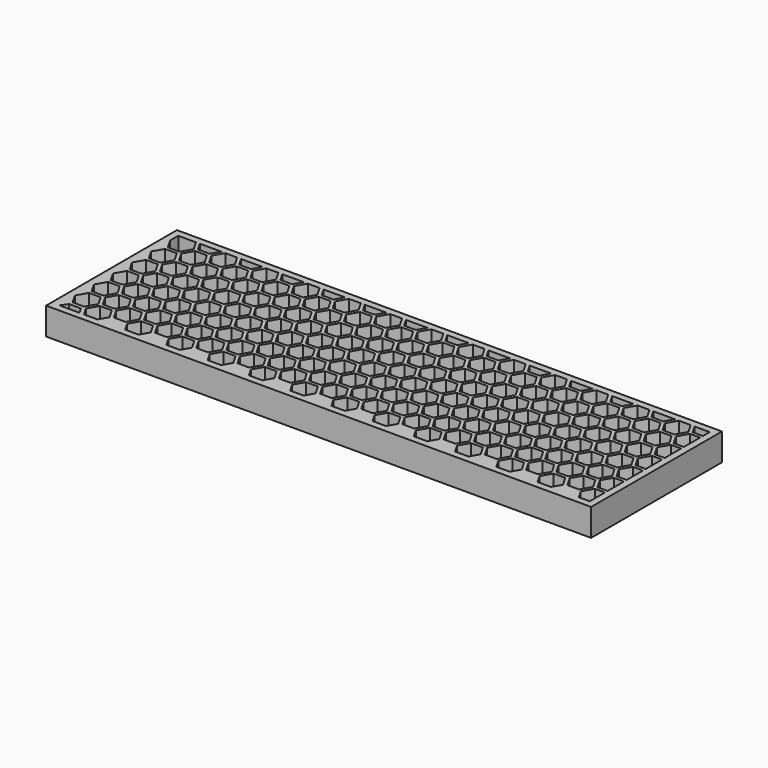
from build123d import *

# Parameters (mm, degrees)
F1_DEPTH = 12.7


with BuildPart() as f1:
    # F0 (on Top) → F1 (new body)
    with BuildSketch(Plane.XY):
        Polygon((246.0997456347, 12.0109306526), (250.825, 12.0109306526), (250.825, 13.5984306526), (246.0997456347, 13.5984306526), (243.3556092871, 18.3514142296), (246.0997456347, 23.1043978066), (250.825, 23.1043978066), (250.825, 24.6918978066), (246.0997456347, 24.6918978066), (243.3556092871, 29.4448813837), (246.0997456347, 34.1978649607), (250.825, 34.1978649607), (250.825, 35.7853649607), (246.0997456347, 35.7853649607), (243.3556092871, 40.5383485378), (246.0997456347, 45.2913321148), (250.825, 45.2913321148), (250.825, 46.8788321148), (246.0997456347, 46.8788321148), (243.3556092871, 51.6318156918), (246.0997456347, 56.3847992689), (250.825, 56.3847992689), (250.825, 57.9722992689), (246.0997456347, 57.9722992689), (243.3556092871, 62.7252828459), (246.0997456347, 67.478266423), (250.825, 67.478266423), (250.825, 69.065766423), (246.0997456347, 69.065766423), (243.8138810632, 73.025), (241.9807939586, 73.025), (244.7249303062, 68.272016423), (241.9807939586, 63.5190328459), (236.4925212633, 63.5190328459), (233.7483849156, 68.272016423), (236.4925212633, 73.025), (234.6594341586, 73.025), (232.3735695871, 69.065766423), (226.8852968918, 69.065766423), (224.5994323203, 73.025), (222.7663452156, 73.025), (225.5104815633, 68.272016423), (222.7663452156, 63.5190328459), (217.2780725203, 63.5190328459), (214.5339361726, 68.272016423), (217.2780725203, 73.025), (215.4449854156, 73.025), (213.1591208441, 69.065766423), (207.6708481488, 69.065766423), (205.3849835773, 73.025), (203.5518964726, 73.025), (206.2960328203, 68.272016423), (203.5518964726, 63.5190328459), (198.0636237773, 63.5190328459), (195.3194874297, 68.272016423), (198.0636237773, 73.025), (196.2305366726, 73.025), (193.9446721012, 69.065766423), (188.4563994058, 69.065766423), (186.1705348343, 73.025), (184.3374477297, 73.025), (187.0815840773, 68.272016423), (184.3374477297, 63.5190328459), (178.8491750344, 63.5190328459), (176.1050386867, 68.272016423), (178.8491750344, 73.025), (177.0160879297, 73.025), (174.7302233582, 69.065766423), (169.2419506629, 69.065766423), (166.9560860914, 73.025), (165.1229989867, 73.025), (167.8671353344, 68.272016423), (165.1229989867, 63.5190328459), (159.6347262914, 63.5190328459), (156.8905899437, 68.272016423), (159.6347262914, 73.025), (157.8016391867, 73.025), (155.5157746152, 69.065766423), (150.0275019199, 69.065766423), (147.7416373484, 73.025), (145.9085502437, 73.025), (148.6526865914, 68.272016423), (145.9085502437, 63.5190328459), (140.4202775484, 63.5190328459), (137.6761412008, 68.272016423), (140.4202775484, 73.025), (138.5871904437, 73.025), (136.3013258723, 69.065766423), (130.8130531769, 69.065766423), (128.5271886054, 73.025), (126.6941015008, 73.025), (129.4382378484, 68.272016423), (126.6941015008, 63.5190328459), (121.2058288055, 63.5190328459), (118.4616924578, 68.272016423), (121.2058288055, 73.025), (119.3727417008, 73.025), (117.0868771293, 69.065766423), (111.598604434, 69.065766423), (109.3127398625, 73.025), (107.4796527578, 73.025), (110.2237891055, 68.272016423), (107.4796527578, 63.5190328459), (101.9913800625, 63.5190328459), (99.2472437148, 68.272016423), (101.9913800625, 73.025), (100.1582929578, 73.025), (97.8724283863, 69.065766423), (92.384155691, 69.065766423), (90.0982911195, 73.025), (88.2652040148, 73.025), (91.0093403625, 68.272016423), (88.2652040148, 63.5190328459), (82.7769313195, 63.5190328459), (80.0327949719, 68.272016423), (82.7769313195, 73.025), (80.9438442148, 73.025), (78.6579796434, 69.065766423), (73.169706948, 69.065766423), (70.8838423766, 73.025), (69.0507552719, 73.025), (71.7948916195, 68.272016423), (69.0507552719, 63.5190328459), (63.5624825766, 63.5190328459), (60.8183462289, 68.272016423), (63.5624825766, 73.025), (61.7293954719, 73.025), (59.4435309004, 69.065766423), (53.9552582051, 69.065766423), (51.6693936336, 73.025), (49.8363065289, 73.025), (52.5804428766, 68.272016423), (49.8363065289, 63.5190328459), (44.3480338336, 63.5190328459), (41.6038974859, 68.272016423), (44.3480338336, 73.025), (42.5149467289, 73.025), (40.2290821574, 69.065766423), (34.7408094621, 69.065766423), (32.4549448906, 73.025), (30.6218577859, 73.025), (33.3659941336, 68.272016423), (30.6218577859, 63.5190328459), (25.1335850906, 63.5190328459), (22.389448743, 68.272016423), (25.1335850906, 73.025), (23.3004979859, 73.025), (21.0146334145, 69.065766423), (15.5263607191, 69.065766423), (13.2404961477, 73.025), (11.407409043, 73.025), (14.1515453906, 68.272016423), (11.407409043, 63.5190328459), (5.9191363477, 63.5190328459), (3.175, 68.272016423), (3.175, 57.1785492689), (3.175, 46.0850821148), (3.175, 34.9916149607), (3.175, 23.8981478066), (3.175, 12.8046806526), (3.175, 3.175), (3.635113977, 3.175), (5.8041215885, 6.2192215119), (11.2923942839, 6.2192215119), (13.0010860927, 3.175), (15.1395149646, 3.175), (12.7822243715, 7.2579470755), (15.5263607191, 12.0109306526), (21.0146334145, 12.0109306526), (23.7587697621, 7.2579470755), (21.401479169, 3.175), (34.3539637076, 3.175), (31.9966731144, 7.2579470755), (34.7408094621, 12.0109306526), (40.2290821574, 12.0109306526), (42.9732185051, 7.2579470755), (40.615927912, 3.175), (53.5684124505, 3.175), (51.2111218574, 7.2579470755), (53.9552582051, 12.0109306526), (59.4435309004, 12.0109306526), (62.187667248, 7.2579470755), (59.8303766549, 3.175), (72.7828611935, 3.175), (70.4255706004, 7.2579470755), (73.169706948, 12.0109306526), (78.6579796434, 12.0109306526), (81.402115991, 7.2579470755), (79.0448253979, 3.175), (91.9973099365, 3.175), (89.6400193433, 7.2579470755), (92.384155691, 12.0109306526), (97.8724283863, 12.0109306526), (100.616564734, 7.2579470755), (98.2592741408, 3.175), (111.2117586794, 3.175), (108.8544680863, 7.2579470755), (111.598604434, 12.0109306526), (117.0868771293, 12.0109306526), (119.8310134769, 7.2579470755), (117.4737228838, 3.175), (130.4262074224, 3.175), (128.0689168293, 7.2579470755), (130.8130531769, 12.0109306526), (136.3013258723, 12.0109306526), (139.0454622199, 7.2579470755), (136.6881716268, 3.175), (149.6406561654, 3.175), (147.2833655722, 7.2579470755), (150.0275019199, 12.0109306526), (155.5157746152, 12.0109306526), (158.2599109629, 7.2579470755), (155.9026203697, 3.175), (168.8551049083, 3.175), (166.4978143152, 7.2579470755), (169.2419506629, 12.0109306526), (174.7302233582, 12.0109306526), (177.4743597058, 7.2579470755), (175.1170691127, 3.175), (188.0695536513, 3.175), (185.7122630582, 7.2579470755), (188.4563994058, 12.0109306526), (193.9446721012, 12.0109306526), (196.6888084488, 7.2579470755), (194.3315178557, 3.175), (207.2840023943, 3.175), (204.9267118011, 7.2579470755), (207.6708481488, 12.0109306526), (213.1591208441, 12.0109306526), (215.9032571918, 7.2579470755), (213.5459665986, 3.175), (226.4984511372, 3.175), (224.1411605441, 7.2579470755), (226.8852968918, 12.0109306526), (232.3735695871, 12.0109306526), (235.1177059347, 7.2579470755), (232.7604153416, 3.175), (245.7128998802, 3.175), (243.3556092871, 7.2579470755), align=None)
        Polygon((5.9191363477, 8.0516970755), (3.175, 12.8046806526), (5.9191363477, 17.5576642296), (11.407409043, 17.5576642296), (14.1515453906, 12.8046806526), (11.407409043, 8.0516970755), align=None, mode=Mode.SUBTRACT)
        Polygon((25.1335850906, 17.5576642296), (30.6218577859, 17.5576642296), (33.3659941336, 12.8046806526), (30.6218577859, 8.0516970755), (25.1335850906, 8.0516970755), (22.389448743, 12.8046806526), align=None, mode=Mode.SUBTRACT)
        Polygon((15.5263607191, 13.5984306526), (12.7822243715, 18.3514142296), (15.5263607191, 23.1043978066), (21.0146334145, 23.1043978066), (23.7587697621, 18.3514142296), (21.0146334145, 13.5984306525), align=None, mode=Mode.SUBTRACT)
        Polygon((44.3480338336, 17.5576642296), (49.8363065289, 17.5576642296), (52.5804428766, 12.8046806526), (49.8363065289, 8.0516970755), (44.3480338336, 8.0516970755), (41.6038974859, 12.8046806526), align=None, mode=Mode.SUBTRACT)
        Polygon((34.7408094621, 13.5984306526), (31.9966731144, 18.3514142296), (34.7408094621, 23.1043978066), (40.2290821574, 23.1043978066), (42.9732185051, 18.3514142296), (40.2290821574, 13.5984306526), align=None, mode=Mode.SUBTRACT)
        Polygon((53.9552582051, 13.5984306526), (51.2111218574, 18.3514142296), (53.9552582051, 23.1043978066), (59.4435309004, 23.1043978066), (62.187667248, 18.3514142296), (59.4435309004, 13.5984306526), align=None, mode=Mode.SUBTRACT)
        Polygon((63.5624825766, 17.5576642296), (69.0507552719, 17.5576642296), (71.7948916195, 12.8046806526), (69.0507552719, 8.0516970755), (63.5624825766, 8.0516970755), (60.8183462289, 12.8046806526), align=None, mode=Mode.SUBTRACT)
        Polygon((82.7769313195, 17.5576642296), (88.2652040148, 17.5576642296), (91.0093403625, 12.8046806526), (88.2652040148, 8.0516970755), (82.7769313195, 8.0516970755), (80.0327949719, 12.8046806526), align=None, mode=Mode.SUBTRACT)
        Polygon((73.169706948, 13.5984306526), (70.4255706004, 18.3514142296), (73.169706948, 23.1043978066), (78.6579796434, 23.1043978066), (81.402115991, 18.3514142296), (78.6579796434, 13.5984306526), align=None, mode=Mode.SUBTRACT)
        Polygon((92.384155691, 13.5984306526), (89.6400193433, 18.3514142296), (92.384155691, 23.1043978066), (97.8724283863, 23.1043978066), (100.616564734, 18.3514142296), (97.8724283863, 13.5984306526), align=None, mode=Mode.SUBTRACT)
        Polygon((101.9913800625, 17.5576642296), (107.4796527578, 17.5576642296), (110.2237891055, 12.8046806526), (107.4796527578, 8.0516970755), (101.9913800625, 8.0516970755), (99.2472437148, 12.8046806526), align=None, mode=Mode.SUBTRACT)
        Polygon((121.2058288055, 17.5576642296), (126.6941015008, 17.5576642296), (129.4382378484, 12.8046806526), (126.6941015008, 8.0516970755), (121.2058288055, 8.0516970755), (118.4616924578, 12.8046806526), align=None, mode=Mode.SUBTRACT)
        Polygon((111.598604434, 13.5984306526), (108.8544680863, 18.3514142296), (111.598604434, 23.1043978066), (117.0868771293, 23.1043978066), (119.8310134769, 18.3514142296), (117.0868771293, 13.5984306526), align=None, mode=Mode.SUBTRACT)
        Polygon((5.9191363477, 19.1451642296), (3.175, 23.8981478066), (5.9191363477, 28.6511313837), (11.407409043, 28.6511313837), (14.1515453906, 23.8981478066), (11.407409043, 19.1451642296), align=None, mode=Mode.SUBTRACT)
        Polygon((25.1335850906, 28.6511313837), (30.6218577859, 28.6511313837), (33.3659941336, 23.8981478066), (30.6218577859, 19.1451642296), (25.1335850906, 19.1451642296), (22.389448743, 23.8981478066), align=None, mode=Mode.SUBTRACT)
        Polygon((44.3480338336, 28.6511313837), (49.8363065289, 28.6511313837), (52.5804428766, 23.8981478066), (49.8363065289, 19.1451642296), (44.3480338336, 19.1451642296), (41.6038974859, 23.8981478066), align=None, mode=Mode.SUBTRACT)
        Polygon((15.5263607191, 24.6918978066), (12.7822243715, 29.4448813837), (15.5263607191, 34.1978649607), (21.0146334145, 34.1978649607), (23.7587697621, 29.4448813837), (21.0146334145, 24.6918978066), align=None, mode=Mode.SUBTRACT)
        Polygon((5.9191363477, 30.2386313837), (3.175, 34.9916149607), (5.9191363477, 39.7445985378), (11.407409043, 39.7445985378), (14.1515453906, 34.9916149607), (11.407409043, 30.2386313837), align=None, mode=Mode.SUBTRACT)
        Polygon((25.1335850906, 39.7445985378), (30.6218577859, 39.7445985378), (33.3659941336, 34.9916149607), (30.6218577859, 30.2386313837), (25.1335850906, 30.2386313837), (22.389448743, 34.9916149607), align=None, mode=Mode.SUBTRACT)
        Polygon((34.7408094621, 24.6918978066), (31.9966731144, 29.4448813837), (34.7408094621, 34.1978649607), (40.2290821574, 34.1978649607), (42.9732185051, 29.4448813837), (40.2290821574, 24.6918978066), align=None, mode=Mode.SUBTRACT)
        Polygon((53.9552582051, 24.6918978066), (51.2111218574, 29.4448813837), (53.9552582051, 34.1978649607), (59.4435309004, 34.1978649607), (62.187667248, 29.4448813837), (59.4435309004, 24.6918978066), align=None, mode=Mode.SUBTRACT)
        Polygon((44.3480338336, 39.7445985378), (49.8363065289, 39.7445985378), (52.5804428766, 34.9916149607), (49.8363065289, 30.2386313837), (44.3480338336, 30.2386313837), (41.6038974859, 34.9916149607), align=None, mode=Mode.SUBTRACT)
        Polygon((63.5624825766, 28.6511313837), (69.0507552719, 28.6511313837), (71.7948916195, 23.8981478066), (69.0507552719, 19.1451642296), (63.5624825766, 19.1451642296), (60.8183462289, 23.8981478066), align=None, mode=Mode.SUBTRACT)
        Polygon((82.7769313195, 28.6511313837), (88.2652040148, 28.6511313837), (91.0093403625, 23.8981478066), (88.2652040148, 19.1451642296), (82.7769313195, 19.1451642296), (80.0327949719, 23.8981478066), align=None, mode=Mode.SUBTRACT)
        Polygon((101.9913800625, 28.6511313837), (107.4796527578, 28.6511313837), (110.2237891055, 23.8981478066), (107.4796527578, 19.1451642296), (101.9913800625, 19.1451642296), (99.2472437148, 23.8981478066), align=None, mode=Mode.SUBTRACT)
        Polygon((121.2058288055, 28.6511313837), (126.6941015008, 28.6511313837), (129.4382378484, 23.8981478066), (126.6941015008, 19.1451642296), (121.2058288055, 19.1451642296), (118.4616924578, 23.8981478066), align=None, mode=Mode.SUBTRACT)
        Polygon((73.169706948, 24.6918978066), (70.4255706004, 29.4448813837), (73.169706948, 34.1978649607), (78.6579796434, 34.1978649607), (81.402115991, 29.4448813837), (78.6579796434, 24.6918978066), align=None, mode=Mode.SUBTRACT)
        Polygon((92.384155691, 24.6918978066), (89.6400193433, 29.4448813837), (92.384155691, 34.1978649607), (97.8724283863, 34.1978649607), (100.616564734, 29.4448813837), (97.8724283863, 24.6918978066), align=None, mode=Mode.SUBTRACT)
        Polygon((63.5624825766, 39.7445985378), (69.0507552719, 39.7445985378), (71.7948916195, 34.9916149607), (69.0507552719, 30.2386313837), (63.5624825766, 30.2386313837), (60.8183462289, 34.9916149607), align=None, mode=Mode.SUBTRACT)
        Polygon((82.7769313195, 39.7445985378), (88.2652040148, 39.7445985378), (91.0093403625, 34.9916149607), (88.2652040148, 30.2386313837), (82.7769313195, 30.2386313837), (80.0327949719, 34.9916149607), align=None, mode=Mode.SUBTRACT)
        Polygon((111.598604434, 24.6918978066), (108.8544680863, 29.4448813837), (111.598604434, 34.1978649607), (117.0868771293, 34.1978649607), (119.8310134769, 29.4448813837), (117.0868771293, 24.6918978066), align=None, mode=Mode.SUBTRACT)
        Polygon((101.9913800625, 39.7445985378), (107.4796527578, 39.7445985378), (110.2237891055, 34.9916149607), (107.4796527578, 30.2386313837), (101.9913800625, 30.2386313837), (99.2472437148, 34.9916149607), align=None, mode=Mode.SUBTRACT)
        Polygon((121.2058288055, 39.7445985378), (126.6941015008, 39.7445985378), (129.4382378484, 34.9916149607), (126.6941015008, 30.2386313837), (121.2058288055, 30.2386313837), (118.4616924578, 34.9916149607), align=None, mode=Mode.SUBTRACT)
        Polygon((140.4202775484, 17.5576642296), (145.9085502437, 17.5576642296), (148.6526865914, 12.8046806526), (145.9085502437, 8.0516970755), (140.4202775484, 8.0516970755), (137.6761412008, 12.8046806526), align=None, mode=Mode.SUBTRACT)
        Polygon((130.8130531769, 13.5984306526), (128.0689168293, 18.3514142296), (130.8130531769, 23.1043978066), (136.3013258723, 23.1043978066), (139.0454622199, 18.3514142296), (136.3013258723, 13.5984306526), align=None, mode=Mode.SUBTRACT)
        Polygon((150.0275019199, 13.5984306526), (147.2833655722, 18.3514142296), (150.0275019199, 23.1043978066), (155.5157746152, 23.1043978066), (158.2599109629, 18.3514142296), (155.5157746152, 13.5984306526), align=None, mode=Mode.SUBTRACT)
        Polygon((159.6347262914, 17.5576642296), (165.1229989867, 17.5576642296), (167.8671353344, 12.8046806526), (165.1229989867, 8.0516970755), (159.6347262914, 8.0516970755), (156.8905899437, 12.8046806526), align=None, mode=Mode.SUBTRACT)
        Polygon((178.8491750344, 17.5576642296), (184.3374477297, 17.5576642296), (187.0815840773, 12.8046806526), (184.3374477297, 8.0516970755), (178.8491750344, 8.0516970755), (176.1050386867, 12.8046806526), align=None, mode=Mode.SUBTRACT)
        Polygon((169.2419506629, 13.5984306526), (166.4978143152, 18.3514142296), (169.2419506629, 23.1043978066), (174.7302233582, 23.1043978066), (177.4743597058, 18.3514142296), (174.7302233582, 13.5984306526), align=None, mode=Mode.SUBTRACT)
        Polygon((198.0636237773, 17.5576642296), (203.5518964726, 17.5576642296), (206.2960328203, 12.8046806526), (203.5518964726, 8.0516970755), (198.0636237773, 8.0516970755), (195.3194874297, 12.8046806526), align=None, mode=Mode.SUBTRACT)
        Polygon((217.2780725203, 17.5576642296), (222.7663452156, 17.5576642296), (225.5104815633, 12.8046806526), (222.7663452156, 8.0516970755), (217.2780725203, 8.0516970755), (214.5339361726, 12.8046806526), align=None, mode=Mode.SUBTRACT)
        Polygon((188.4563994058, 13.5984306526), (185.7122630582, 18.3514142296), (188.4563994058, 23.1043978066), (193.9446721012, 23.1043978066), (196.6888084488, 18.3514142296), (193.9446721012, 13.5984306526), align=None, mode=Mode.SUBTRACT)
        Polygon((207.6708481488, 13.5984306526), (204.9267118011, 18.3514142296), (207.6708481488, 23.1043978066), (213.1591208441, 23.1043978066), (215.9032571918, 18.3514142296), (213.1591208441, 13.5984306526), align=None, mode=Mode.SUBTRACT)
        Polygon((236.4925212633, 17.5576642296), (241.9807939586, 17.5576642296), (244.7249303062, 12.8046806526), (241.9807939586, 8.0516970755), (236.4925212633, 8.0516970755), (233.7483849156, 12.8046806526), align=None, mode=Mode.SUBTRACT)
        Polygon((226.8852968918, 13.5984306526), (224.1411605441, 18.3514142296), (226.8852968918, 23.1043978066), (232.3735695871, 23.1043978066), (235.1177059347, 18.3514142296), (232.3735695871, 13.5984306526), align=None, mode=Mode.SUBTRACT)
        Polygon((140.4202775484, 28.6511313837), (145.9085502437, 28.6511313837), (148.6526865914, 23.8981478066), (145.9085502437, 19.1451642296), (140.4202775484, 19.1451642296), (137.6761412008, 23.8981478066), align=None, mode=Mode.SUBTRACT)
        Polygon((159.6347262914, 28.6511313837), (165.1229989867, 28.6511313837), (167.8671353344, 23.8981478066), (165.1229989867, 19.1451642296), (159.6347262914, 19.1451642296), (156.8905899437, 23.8981478066), align=None, mode=Mode.SUBTRACT)
        Polygon((178.8491750344, 28.6511313837), (184.3374477297, 28.6511313837), (187.0815840773, 23.8981478066), (184.3374477297, 19.1451642296), (178.8491750344, 19.1451642296), (176.1050386867, 23.8981478066), align=None, mode=Mode.SUBTRACT)
        Polygon((130.8130531769, 24.6918978066), (128.0689168293, 29.4448813837), (130.8130531769, 34.1978649607), (136.3013258723, 34.1978649607), (139.0454622199, 29.4448813837), (136.3013258723, 24.6918978066), align=None, mode=Mode.SUBTRACT)
        Polygon((150.0275019199, 24.6918978066), (147.2833655722, 29.4448813837), (150.0275019199, 34.1978649607), (155.5157746152, 34.1978649607), (158.2599109629, 29.4448813837), (155.5157746152, 24.6918978066), align=None, mode=Mode.SUBTRACT)
        Polygon((140.4202775484, 39.7445985378), (145.9085502437, 39.7445985378), (148.6526865914, 34.9916149607), (145.9085502437, 30.2386313837), (140.4202775484, 30.2386313837), (137.6761412008, 34.9916149607), align=None, mode=Mode.SUBTRACT)
        Polygon((169.2419506629, 24.6918978066), (166.4978143152, 29.4448813837), (169.2419506629, 34.1978649607), (174.7302233582, 34.1978649607), (177.4743597058, 29.4448813837), (174.7302233582, 24.6918978066), align=None, mode=Mode.SUBTRACT)
        Polygon((159.6347262914, 39.7445985378), (165.1229989867, 39.7445985378), (167.8671353344, 34.9916149607), (165.1229989867, 30.2386313837), (159.6347262914, 30.2386313837), (156.8905899437, 34.9916149607), align=None, mode=Mode.SUBTRACT)
        Polygon((178.8491750344, 39.7445985378), (184.3374477297, 39.7445985378), (187.0815840773, 34.9916149607), (184.3374477297, 30.2386313837), (178.8491750344, 30.2386313837), (176.1050386867, 34.9916149607), align=None, mode=Mode.SUBTRACT)
        Polygon((198.0636237773, 28.6511313837), (203.5518964726, 28.6511313837), (206.2960328203, 23.8981478066), (203.5518964726, 19.1451642296), (198.0636237773, 19.1451642296), (195.3194874297, 23.8981478066), align=None, mode=Mode.SUBTRACT)
        Polygon((217.2780725203, 28.6511313837), (222.7663452156, 28.6511313837), (225.5104815633, 23.8981478066), (222.7663452156, 19.1451642296), (217.2780725203, 19.1451642296), (214.5339361726, 23.8981478066), align=None, mode=Mode.SUBTRACT)
        Polygon((236.4925212633, 28.6511313837), (241.9807939586, 28.6511313837), (244.7249303062, 23.8981478066), (241.9807939586, 19.1451642296), (236.4925212633, 19.1451642296), (233.7483849156, 23.8981478066), align=None, mode=Mode.SUBTRACT)
        Polygon((188.4563994058, 24.6918978066), (185.7122630582, 29.4448813837), (188.4563994058, 34.1978649607), (193.9446721012, 34.1978649607), (196.6888084488, 29.4448813837), (193.9446721012, 24.6918978066), align=None, mode=Mode.SUBTRACT)
        Polygon((207.6708481488, 24.6918978066), (204.9267118011, 29.4448813837), (207.6708481488, 34.1978649607), (213.1591208441, 34.1978649607), (215.9032571918, 29.4448813837), (213.1591208441, 24.6918978066), align=None, mode=Mode.SUBTRACT)
        Polygon((198.0636237773, 39.7445985378), (203.5518964726, 39.7445985378), (206.2960328203, 34.9916149607), (203.5518964726, 30.2386313837), (198.0636237773, 30.2386313837), (195.3194874297, 34.9916149607), align=None, mode=Mode.SUBTRACT)
        Polygon((217.2780725203, 39.7445985378), (222.7663452156, 39.7445985378), (225.5104815633, 34.9916149607), (222.7663452156, 30.2386313837), (217.2780725203, 30.2386313837), (214.5339361726, 34.9916149607), align=None, mode=Mode.SUBTRACT)
        Polygon((226.8852968918, 24.6918978066), (224.1411605441, 29.4448813837), (226.8852968918, 34.1978649607), (232.3735695871, 34.1978649607), (235.1177059347, 29.4448813837), (232.3735695871, 24.6918978066), align=None, mode=Mode.SUBTRACT)
        Polygon((236.4925212633, 39.7445985378), (241.9807939586, 39.7445985378), (244.7249303062, 34.9916149607), (241.9807939586, 30.2386313837), (236.4925212633, 30.2386313837), (233.7483849156, 34.9916149607), align=None, mode=Mode.SUBTRACT)
        Polygon((15.5263607191, 35.7853649607), (12.7822243715, 40.5383485378), (15.5263607191, 45.2913321148), (21.0146334145, 45.2913321148), (23.7587697621, 40.5383485378), (21.0146334145, 35.7853649607), align=None, mode=Mode.SUBTRACT)
        Polygon((5.9191363477, 41.3320985378), (3.175, 46.0850821148), (5.9191363477, 50.8380656918), (11.407409043, 50.8380656918), (14.1515453906, 46.0850821148), (11.407409043, 41.3320985378), align=None, mode=Mode.SUBTRACT)
        Polygon((25.1335850906, 50.8380656918), (30.6218577859, 50.8380656918), (33.3659941336, 46.0850821148), (30.6218577859, 41.3320985378), (25.1335850906, 41.3320985378), (22.389448743, 46.0850821148), align=None, mode=Mode.SUBTRACT)
        Polygon((34.7408094621, 35.7853649607), (31.9966731144, 40.5383485378), (34.7408094621, 45.2913321148), (40.2290821574, 45.2913321148), (42.9732185051, 40.5383485378), (40.2290821574, 35.7853649607), align=None, mode=Mode.SUBTRACT)
        Polygon((53.9552582051, 35.7853649607), (51.2111218574, 40.5383485378), (53.9552582051, 45.2913321148), (59.4435309004, 45.2913321148), (62.187667248, 40.5383485378), (59.4435309004, 35.7853649607), align=None, mode=Mode.SUBTRACT)
        Polygon((44.3480338336, 50.8380656918), (49.8363065289, 50.8380656918), (52.5804428766, 46.0850821148), (49.8363065289, 41.3320985378), (44.3480338336, 41.3320985378), (41.6038974859, 46.0850821148), align=None, mode=Mode.SUBTRACT)
        Polygon((15.5263607191, 46.8788321148), (12.7822243715, 51.6318156918), (15.5263607191, 56.3847992689), (21.0146334145, 56.3847992689), (23.7587697621, 51.6318156918), (21.0146334145, 46.8788321148), align=None, mode=Mode.SUBTRACT)
        Polygon((34.7408094621, 46.8788321148), (31.9966731144, 51.6318156918), (34.7408094621, 56.3847992689), (40.2290821574, 56.3847992689), (42.9732185051, 51.6318156918), (40.2290821574, 46.8788321148), align=None, mode=Mode.SUBTRACT)
        Polygon((53.9552582051, 46.8788321148), (51.2111218574, 51.6318156918), (53.9552582051, 56.3847992689), (59.4435309004, 56.3847992689), (62.187667248, 51.6318156918), (59.4435309004, 46.8788321148), align=None, mode=Mode.SUBTRACT)
        Polygon((73.169706948, 35.7853649607), (70.4255706004, 40.5383485378), (73.169706948, 45.2913321148), (78.6579796434, 45.2913321148), (81.402115991, 40.5383485378), (78.6579796434, 35.7853649607), align=None, mode=Mode.SUBTRACT)
        Polygon((92.384155691, 35.7853649607), (89.6400193433, 40.5383485378), (92.384155691, 45.2913321148), (97.8724283863, 45.2913321148), (100.616564734, 40.5383485378), (97.8724283863, 35.7853649607), align=None, mode=Mode.SUBTRACT)
        Polygon((63.5624825766, 50.8380656918), (69.0507552719, 50.8380656918), (71.7948916195, 46.0850821148), (69.0507552719, 41.3320985378), (63.5624825766, 41.3320985378), (60.8183462289, 46.0850821148), align=None, mode=Mode.SUBTRACT)
        Polygon((82.7769313195, 50.8380656918), (88.2652040148, 50.8380656918), (91.0093403625, 46.0850821148), (88.2652040148, 41.3320985378), (82.7769313195, 41.3320985378), (80.0327949719, 46.0850821148), align=None, mode=Mode.SUBTRACT)
        Polygon((111.598604434, 35.7853649607), (108.8544680863, 40.5383485378), (111.598604434, 45.2913321148), (117.0868771293, 45.2913321148), (119.8310134769, 40.5383485378), (117.0868771293, 35.7853649607), align=None, mode=Mode.SUBTRACT)
        Polygon((101.9913800625, 50.8380656918), (107.4796527578, 50.8380656918), (110.2237891055, 46.0850821148), (107.4796527578, 41.3320985378), (101.9913800625, 41.3320985378), (99.2472437148, 46.0850821148), align=None, mode=Mode.SUBTRACT)
        Polygon((121.2058288055, 50.8380656918), (126.6941015008, 50.8380656918), (129.4382378484, 46.0850821148), (126.6941015008, 41.3320985378), (121.2058288055, 41.3320985378), (118.4616924578, 46.0850821148), align=None, mode=Mode.SUBTRACT)
        Polygon((73.169706948, 46.8788321148), (70.4255706004, 51.6318156918), (73.169706948, 56.3847992689), (78.6579796434, 56.3847992689), (81.402115991, 51.6318156918), (78.6579796434, 46.8788321148), align=None, mode=Mode.SUBTRACT)
        Polygon((92.384155691, 46.8788321148), (89.6400193433, 51.6318156918), (92.384155691, 56.3847992689), (97.8724283863, 56.3847992689), (100.616564734, 51.6318156918), (97.8724283863, 46.8788321148), align=None, mode=Mode.SUBTRACT)
        Polygon((111.598604434, 46.8788321148), (108.8544680863, 51.6318156918), (111.598604434, 56.3847992689), (117.0868771293, 56.3847992689), (119.8310134769, 51.6318156918), (117.0868771293, 46.8788321148), align=None, mode=Mode.SUBTRACT)
        Polygon((5.9191363477, 52.4255656918), (3.175, 57.1785492689), (5.9191363477, 61.9315328459), (11.407409043, 61.9315328459), (14.1515453906, 57.1785492689), (11.407409043, 52.4255656918), align=None, mode=Mode.SUBTRACT)
        Polygon((25.1335850906, 61.9315328459), (30.6218577859, 61.9315328459), (33.3659941336, 57.1785492689), (30.6218577859, 52.4255656918), (25.1335850906, 52.4255656918), (22.389448743, 57.1785492689), align=None, mode=Mode.SUBTRACT)
        Polygon((12.7822243715, 62.7252828459), (15.5263607191, 67.478266423), (21.0146334145, 67.478266423), (23.7587697621, 62.7252828459), (21.0146334145, 57.9722992689), (15.5263607191, 57.9722992689), align=None, mode=Mode.SUBTRACT)
        Polygon((44.3480338336, 61.9315328459), (49.8363065289, 61.9315328459), (52.5804428766, 57.1785492689), (49.8363065289, 52.4255656918), (44.3480338336, 52.4255656918), (41.6038974859, 57.1785492689), align=None, mode=Mode.SUBTRACT)
        Polygon((34.7408094621, 57.9722992689), (31.9966731144, 62.7252828459), (34.7408094621, 67.478266423), (40.2290821574, 67.478266423), (42.9732185051, 62.7252828459), (40.2290821574, 57.9722992689), align=None, mode=Mode.SUBTRACT)
        Polygon((53.9552582051, 57.9722992689), (51.2111218574, 62.7252828459), (53.9552582051, 67.478266423), (59.4435309004, 67.478266423), (62.187667248, 62.7252828459), (59.4435309004, 57.9722992689), align=None, mode=Mode.SUBTRACT)
        Polygon((63.5624825766, 61.9315328459), (69.0507552719, 61.9315328459), (71.7948916195, 57.1785492689), (69.0507552719, 52.4255656918), (63.5624825766, 52.4255656918), (60.8183462289, 57.1785492689), align=None, mode=Mode.SUBTRACT)
        Polygon((82.7769313195, 61.9315328459), (88.2652040148, 61.9315328459), (91.0093403625, 57.1785492689), (88.2652040148, 52.4255656918), (82.7769313195, 52.4255656918), (80.0327949719, 57.1785492689), align=None, mode=Mode.SUBTRACT)
        Polygon((73.169706948, 57.9722992689), (70.4255706004, 62.7252828459), (73.169706948, 67.478266423), (78.6579796434, 67.478266423), (81.402115991, 62.7252828459), (78.6579796434, 57.9722992689), align=None, mode=Mode.SUBTRACT)
        Polygon((92.384155691, 57.9722992689), (89.6400193433, 62.7252828459), (92.384155691, 67.478266423), (97.8724283863, 67.478266423), (100.616564734, 62.7252828459), (97.8724283863, 57.9722992689), align=None, mode=Mode.SUBTRACT)
        Polygon((101.9913800625, 61.9315328459), (107.4796527578, 61.9315328459), (110.2237891055, 57.1785492689), (107.4796527578, 52.4255656918), (101.9913800625, 52.4255656918), (99.2472437148, 57.1785492689), align=None, mode=Mode.SUBTRACT)
        Polygon((121.2058288055, 61.9315328459), (126.6941015008, 61.9315328459), (129.4382378484, 57.1785492689), (126.6941015008, 52.4255656918), (121.2058288055, 52.4255656918), (118.4616924578, 57.1785492689), align=None, mode=Mode.SUBTRACT)
        Polygon((111.598604434, 57.9722992689), (108.8544680863, 62.7252828459), (111.598604434, 67.478266423), (117.0868771293, 67.478266423), (119.8310134769, 62.7252828459), (117.0868771293, 57.9722992689), align=None, mode=Mode.SUBTRACT)
        Polygon((130.8130531769, 35.7853649607), (128.0689168293, 40.5383485378), (130.8130531769, 45.2913321148), (136.3013258723, 45.2913321148), (139.0454622199, 40.5383485378), (136.3013258723, 35.7853649607), align=None, mode=Mode.SUBTRACT)
        Polygon((150.0275019199, 35.7853649607), (147.2833655722, 40.5383485378), (150.0275019199, 45.2913321148), (155.5157746152, 45.2913321148), (158.2599109629, 40.5383485378), (155.5157746152, 35.7853649607), align=None, mode=Mode.SUBTRACT)
        Polygon((140.4202775484, 50.8380656918), (145.9085502437, 50.8380656918), (148.6526865914, 46.0850821148), (145.9085502437, 41.3320985378), (140.4202775484, 41.3320985378), (137.6761412008, 46.0850821148), align=None, mode=Mode.SUBTRACT)
        Polygon((169.2419506629, 35.7853649607), (166.4978143152, 40.5383485378), (169.2419506629, 45.2913321148), (174.7302233582, 45.2913321148), (177.4743597058, 40.5383485378), (174.7302233582, 35.7853649607), align=None, mode=Mode.SUBTRACT)
        Polygon((159.6347262914, 50.8380656918), (165.1229989867, 50.8380656918), (167.8671353344, 46.0850821148), (165.1229989867, 41.3320985378), (159.6347262914, 41.3320985378), (156.8905899437, 46.0850821148), align=None, mode=Mode.SUBTRACT)
        Polygon((178.8491750344, 50.8380656918), (184.3374477297, 50.8380656918), (187.0815840773, 46.0850821148), (184.3374477297, 41.3320985378), (178.8491750344, 41.3320985378), (176.1050386867, 46.0850821148), align=None, mode=Mode.SUBTRACT)
        Polygon((130.8130531769, 46.8788321148), (128.0689168293, 51.6318156918), (130.8130531769, 56.3847992689), (136.3013258723, 56.3847992689), (139.0454622199, 51.6318156918), (136.3013258723, 46.8788321148), align=None, mode=Mode.SUBTRACT)
        Polygon((150.0275019199, 46.8788321148), (147.2833655722, 51.6318156918), (150.0275019199, 56.3847992689), (155.5157746152, 56.3847992689), (158.2599109629, 51.6318156918), (155.5157746152, 46.8788321148), align=None, mode=Mode.SUBTRACT)
        Polygon((169.2419506629, 46.8788321148), (166.4978143152, 51.6318156918), (169.2419506629, 56.3847992689), (174.7302233582, 56.3847992689), (177.4743597058, 51.6318156918), (174.7302233582, 46.8788321148), align=None, mode=Mode.SUBTRACT)
        Polygon((188.4563994058, 35.7853649607), (185.7122630582, 40.5383485378), (188.4563994058, 45.2913321148), (193.9446721012, 45.2913321148), (196.6888084488, 40.5383485378), (193.9446721012, 35.7853649607), align=None, mode=Mode.SUBTRACT)
        Polygon((207.6708481488, 35.7853649607), (204.9267118011, 40.5383485378), (207.6708481488, 45.2913321148), (213.1591208441, 45.2913321148), (215.9032571918, 40.5383485378), (213.1591208441, 35.7853649607), align=None, mode=Mode.SUBTRACT)
        Polygon((198.0636237773, 50.8380656918), (203.5518964726, 50.8380656918), (206.2960328203, 46.0850821148), (203.5518964726, 41.3320985378), (198.0636237773, 41.3320985378), (195.3194874297, 46.0850821148), align=None, mode=Mode.SUBTRACT)
        Polygon((217.2780725203, 50.8380656918), (222.7663452156, 50.8380656918), (225.5104815633, 46.0850821148), (222.7663452156, 41.3320985378), (217.2780725203, 41.3320985378), (214.5339361726, 46.0850821148), align=None, mode=Mode.SUBTRACT)
        Polygon((226.8852968918, 35.7853649607), (224.1411605441, 40.5383485378), (226.8852968918, 45.2913321148), (232.3735695871, 45.2913321148), (235.1177059347, 40.5383485378), (232.3735695871, 35.7853649607), align=None, mode=Mode.SUBTRACT)
        Polygon((236.4925212633, 50.8380656918), (241.9807939586, 50.8380656918), (244.7249303062, 46.0850821148), (241.9807939586, 41.3320985378), (236.4925212633, 41.3320985378), (233.7483849156, 46.0850821148), align=None, mode=Mode.SUBTRACT)
        Polygon((188.4563994058, 46.8788321148), (185.7122630582, 51.6318156918), (188.4563994058, 56.3847992689), (193.9446721012, 56.3847992689), (196.6888084488, 51.6318156918), (193.9446721012, 46.8788321148), align=None, mode=Mode.SUBTRACT)
        Polygon((207.6708481488, 46.8788321148), (204.9267118011, 51.6318156918), (207.6708481488, 56.3847992689), (213.1591208441, 56.3847992689), (215.9032571918, 51.6318156918), (213.1591208441, 46.8788321148), align=None, mode=Mode.SUBTRACT)
        Polygon((226.8852968918, 46.8788321148), (224.1411605441, 51.6318156918), (226.8852968918, 56.3847992689), (232.3735695871, 56.3847992689), (235.1177059347, 51.6318156918), (232.3735695871, 46.8788321148), align=None, mode=Mode.SUBTRACT)
        Polygon((140.4202775484, 61.9315328459), (145.9085502437, 61.9315328459), (148.6526865914, 57.1785492689), (145.9085502437, 52.4255656918), (140.4202775484, 52.4255656918), (137.6761412008, 57.1785492689), align=None, mode=Mode.SUBTRACT)
        Polygon((130.8130531769, 57.9722992689), (128.0689168293, 62.7252828459), (130.8130531769, 67.478266423), (136.3013258723, 67.478266423), (139.0454622199, 62.7252828459), (136.3013258723, 57.9722992689), align=None, mode=Mode.SUBTRACT)
        Polygon((150.0275019199, 57.9722992689), (147.2833655722, 62.7252828459), (150.0275019199, 67.478266423), (155.5157746152, 67.478266423), (158.2599109629, 62.7252828459), (155.5157746152, 57.9722992689), align=None, mode=Mode.SUBTRACT)
        Polygon((159.6347262914, 61.9315328459), (165.1229989867, 61.9315328459), (167.8671353344, 57.1785492689), (165.1229989867, 52.4255656918), (159.6347262914, 52.4255656918), (156.8905899437, 57.1785492689), align=None, mode=Mode.SUBTRACT)
        Polygon((178.8491750344, 61.9315328459), (184.3374477297, 61.9315328459), (187.0815840773, 57.1785492689), (184.3374477297, 52.4255656918), (178.8491750344, 52.4255656918), (176.1050386867, 57.1785492689), align=None, mode=Mode.SUBTRACT)
        Polygon((169.2419506629, 57.9722992689), (166.4978143152, 62.7252828459), (169.2419506629, 67.478266423), (174.7302233582, 67.478266423), (177.4743597058, 62.7252828459), (174.7302233582, 57.9722992689), align=None, mode=Mode.SUBTRACT)
        Polygon((198.0636237773, 61.9315328459), (203.5518964726, 61.9315328459), (206.2960328203, 57.1785492689), (203.5518964726, 52.4255656918), (198.0636237773, 52.4255656918), (195.3194874297, 57.1785492689), align=None, mode=Mode.SUBTRACT)
        Polygon((217.2780725203, 61.9315328459), (222.7663452156, 61.9315328459), (225.5104815633, 57.1785492689), (222.7663452156, 52.4255656918), (217.2780725203, 52.4255656918), (214.5339361726, 57.1785492689), align=None, mode=Mode.SUBTRACT)
        Polygon((188.4563994058, 57.9722992689), (185.7122630582, 62.7252828459), (188.4563994058, 67.478266423), (193.9446721012, 67.478266423), (196.6888084488, 62.7252828459), (193.9446721012, 57.9722992689), align=None, mode=Mode.SUBTRACT)
        Polygon((207.6708481488, 57.9722992689), (204.9267118011, 62.7252828459), (207.6708481488, 67.478266423), (213.1591208441, 67.478266423), (215.9032571918, 62.7252828459), (213.1591208441, 57.9722992689), align=None, mode=Mode.SUBTRACT)
        Polygon((236.4925212633, 61.9315328459), (241.9807939586, 61.9315328459), (244.7249303062, 57.1785492689), (241.9807939586, 52.4255656918), (236.4925212633, 52.4255656918), (233.7483849156, 57.1785492689), align=None, mode=Mode.SUBTRACT)
        Polygon((226.8852968918, 57.9722992689), (224.1411605441, 62.7252828459), (226.8852968918, 67.478266423), (232.3735695871, 67.478266423), (235.1177059347, 62.7252828459), (232.3735695871, 57.9722992689), align=None, mode=Mode.SUBTRACT)
        Polygon((0, 76.2), (0, 0), (254, 0), (254, 6.6826382977), (251.5880183301, 2.5049634985), (246.0997456347, 2.5049634985), (245.7128998802, 3.175), (232.7604153416, 3.175), (232.3735695871, 2.5049634985), (226.8852968918, 2.5049634985), (226.4984511372, 3.175), (213.5459665986, 3.175), (213.1591208441, 2.5049634985), (207.6708481488, 2.5049634985), (207.2840023943, 3.175), (194.3315178557, 3.175), (193.9446721012, 2.5049634985), (188.4563994058, 2.5049634985), (188.0695536513, 3.175), (175.1170691127, 3.175), (174.7302233582, 2.5049634985), (169.2419506629, 2.5049634985), (168.8551049083, 3.175), (155.9026203697, 3.175), (155.5157746152, 2.5049634985), (150.0275019199, 2.5049634985), (149.6406561654, 3.175), (136.6881716268, 3.175), (136.3013258723, 2.5049634985), (130.8130531769, 2.5049634985), (130.4262074224, 3.175), (117.4737228838, 3.175), (117.0868771293, 2.5049634985), (111.598604434, 2.5049634985), (111.2117586794, 3.175), (98.2592741408, 3.175), (97.8724283863, 2.5049634985), (92.384155691, 2.5049634985), (91.9973099365, 3.175), (79.0448253979, 3.175), (78.6579796434, 2.5049634985), (73.169706948, 2.5049634985), (72.7828611935, 3.175), (59.8303766549, 3.175), (59.4435309004, 2.5049634985), (53.9552582051, 2.5049634985), (53.5684124505, 3.175), (40.615927912, 3.175), (40.2290821574, 2.5049634985), (34.7408094621, 2.5049634985), (34.3539637076, 3.175), (21.401479169, 3.175), (21.0146334145, 2.5049634985), (15.5263607191, 2.5049634985), (15.1395149646, 3.175), (13.0010860927, 3.175), (3.635113977, 3.175), (3.175, 3.175), (3.175, 12.8046806526), (3.175, 23.8981478066), (3.175, 34.9916149607), (3.175, 46.0850821148), (3.175, 57.1785492689), (3.175, 68.272016423), (3.175, 73.025), (5.9191363477, 73.025), (11.407409043, 73.025), (13.2404961477, 73.025), (23.3004979859, 73.025), (25.1335850906, 73.025), (30.6218577859, 73.025), (32.4549448906, 73.025), (42.5149467289, 73.025), (44.3480338336, 73.025), (49.8363065289, 73.025), (51.6693936336, 73.025), (61.7293954719, 73.025), (63.5624825766, 73.025), (69.0507552719, 73.025), (70.8838423766, 73.025), (80.9438442148, 73.025), (82.7769313195, 73.025), (88.2652040148, 73.025), (90.0982911195, 73.025), (100.1582929578, 73.025), (101.9913800625, 73.025), (107.4796527578, 73.025), (109.3127398625, 73.025), (119.3727417008, 73.025), (121.2058288055, 73.025), (126.6941015008, 73.025), (128.5271886054, 73.025), (138.5871904437, 73.025), (140.4202775484, 73.025), (145.9085502437, 73.025), (147.7416373484, 73.025), (157.8016391867, 73.025), (159.6347262914, 73.025), (165.1229989867, 73.025), (166.9560860914, 73.025), (177.0160879297, 73.025), (178.8491750344, 73.025), (184.3374477297, 73.025), (186.1705348343, 73.025), (196.2305366726, 73.025), (198.0636237773, 73.025), (203.5518964726, 73.025), (205.3849835773, 73.025), (215.4449854156, 73.025), (217.2780725203, 73.025), (222.7663452156, 73.025), (224.5994323203, 73.025), (234.6594341586, 73.025), (236.4925212633, 73.025), (241.9807939586, 73.025), (243.8138810632, 73.025), (250.825, 73.025), (250.825, 69.065766423), (250.825, 67.478266423), (251.5880183301, 67.478266423), (254, 63.3005916237), (254, 76.2), align=None)
        Polygon((251.5880183301, 12.0109306526), (254, 7.8332558533), (254, 17.7761054518), (251.5880183301, 13.5984306526), (250.825, 13.5984306526), (250.825, 12.0109306526), align=None)
        Polygon((251.5880183301, 2.5049634985), (254, 6.6826382977), (254, 7.8332558533), (251.5880183301, 12.0109306526), (250.825, 12.0109306526), (250.825, 3.175), (245.7128998802, 3.175), (246.0997456347, 2.5049634985), align=None)
        Polygon((251.5880183301, 13.5984306526), (254, 17.7761054518), (254, 18.9267230074), (251.5880183301, 23.1043978066), (250.825, 23.1043978066), (250.825, 13.5984306526), align=None)
        Polygon((251.5880183301, 23.1043978066), (254, 18.9267230074), (254, 28.8695726059), (251.5880183301, 24.6918978066), (250.825, 24.6918978066), (250.825, 23.1043978066), align=None)
        Polygon((251.5880183301, 24.6918978066), (254, 28.8695726059), (254, 30.0201901614), (251.5880183301, 34.1978649607), (250.825, 34.1978649607), (250.825, 24.6918978066), align=None)
        Polygon((251.5880183301, 34.1978649607), (254, 30.0201901614), (254, 39.96303976), (251.5880183301, 35.7853649607), (250.825, 35.7853649607), (250.825, 34.1978649607), align=None)
        Polygon((254, 39.96303976), (254, 41.1136573155), (251.5880183301, 45.2913321148), (250.825, 45.2913321148), (250.825, 35.7853649607), (251.5880183301, 35.7853649607), align=None)
        Polygon((254, 41.1136573155), (254, 51.0565069141), (251.5880183301, 46.8788321148), (250.825, 46.8788321148), (250.825, 45.2913321148), (251.5880183301, 45.2913321148), align=None)
        Polygon((254, 51.0565069141), (254, 52.2071244696), (251.5880183301, 56.3847992689), (250.825, 56.3847992689), (250.825, 46.8788321148), (251.5880183301, 46.8788321148), align=None)
        Polygon((254, 52.2071244696), (254, 62.1499740682), (251.5880183301, 57.9722992689), (250.825, 57.9722992689), (250.825, 56.3847992689), (251.5880183301, 56.3847992689), align=None)
        Polygon((254, 62.1499740682), (254, 63.3005916237), (251.5880183301, 67.478266423), (250.825, 67.478266423), (250.825, 57.9722992689), (251.5880183301, 57.9722992689), align=None)
        Polygon((21.0146334145, 2.5049634985), (21.401479169, 3.175), (15.1395149646, 3.175), (15.5263607191, 2.5049634985), align=None)
        Polygon((40.2290821574, 2.5049634985), (40.615927912, 3.175), (34.3539637076, 3.175), (34.7408094621, 2.5049634985), align=None)
        Polygon((59.4435309004, 2.5049634985), (59.8303766549, 3.175), (53.5684124505, 3.175), (53.9552582051, 2.5049634985), align=None)
        Polygon((78.6579796434, 2.5049634985), (79.0448253979, 3.175), (72.7828611935, 3.175), (73.169706948, 2.5049634985), align=None)
        Polygon((97.8724283863, 2.5049634985), (98.2592741408, 3.175), (91.9973099365, 3.175), (92.384155691, 2.5049634985), align=None)
        Polygon((117.0868771293, 2.5049634985), (117.4737228838, 3.175), (111.2117586794, 3.175), (111.598604434, 2.5049634985), align=None)
        Polygon((136.3013258723, 2.5049634985), (136.6881716268, 3.175), (130.4262074224, 3.175), (130.8130531769, 2.5049634985), align=None)
        Polygon((155.5157746152, 2.5049634985), (155.9026203697, 3.175), (149.6406561654, 3.175), (150.0275019199, 2.5049634985), align=None)
        Polygon((174.7302233582, 2.5049634985), (175.1170691127, 3.175), (168.8551049083, 3.175), (169.2419506629, 2.5049634985), align=None)
        Polygon((193.9446721012, 2.5049634985), (194.3315178557, 3.175), (188.0695536513, 3.175), (188.4563994058, 2.5049634985), align=None)
        Polygon((213.1591208441, 2.5049634985), (213.5459665986, 3.175), (207.2840023943, 3.175), (207.6708481488, 2.5049634985), align=None)
        Polygon((232.3735695871, 2.5049634985), (232.7604153416, 3.175), (226.4984511372, 3.175), (226.8852968918, 2.5049634985), align=None)
    extrude(amount=F1_DEPTH)


solid = f1.part
